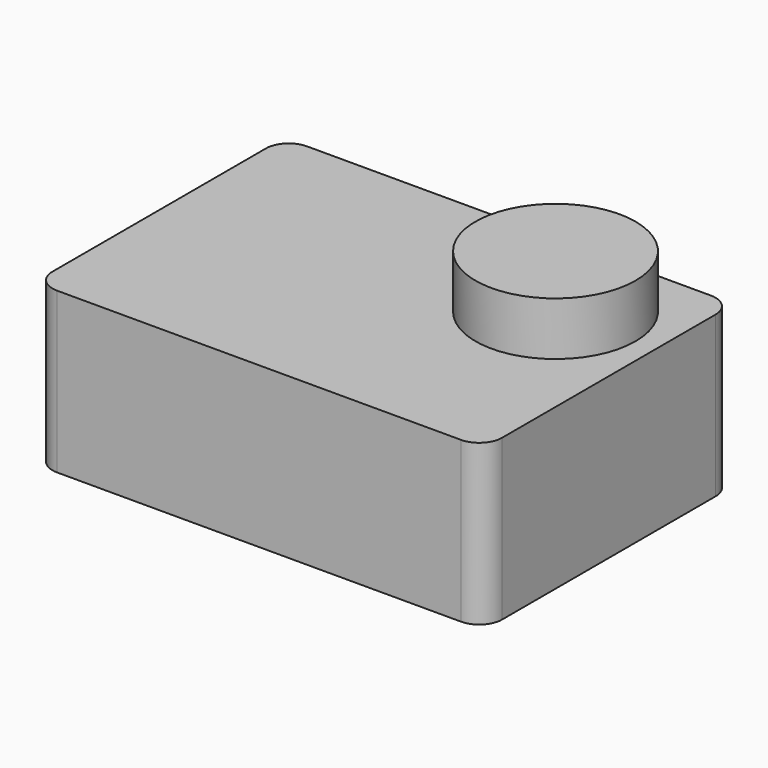
from build123d import *

# Parameters (mm, degrees)
F0_W     = 59
F0_H     = 41
F1_DEPTH = 21
F2_R     = 3
F3_R     = 10.5
F4_DEPTH = 7


with BuildPart() as f1:
    # F0 (on Top) → F1 (new body)
    with BuildSketch(Plane.XY):
        Rectangle(F0_W, F0_H)
    extrude(amount=F1_DEPTH)

    # F2
    f2_edges = [f1.edges().sort_by_distance(p)[0] for p in [
        (-29.5, -20.5, 10.5),
        (-29.5, 20.5, 10.5),
        (29.5, -20.5, 10.5),
        (29.5, 20.5, 10.5),
    ]]
    fillet(f2_edges, radius=F2_R)

    # F3 (on face) → F4 (join)
    with BuildSketch(Plane.XY.offset(21)):
        with Locations((16.302584, 7.747762)):
            Circle(F3_R)
    extrude(amount=F4_DEPTH)


solid = f1.part
